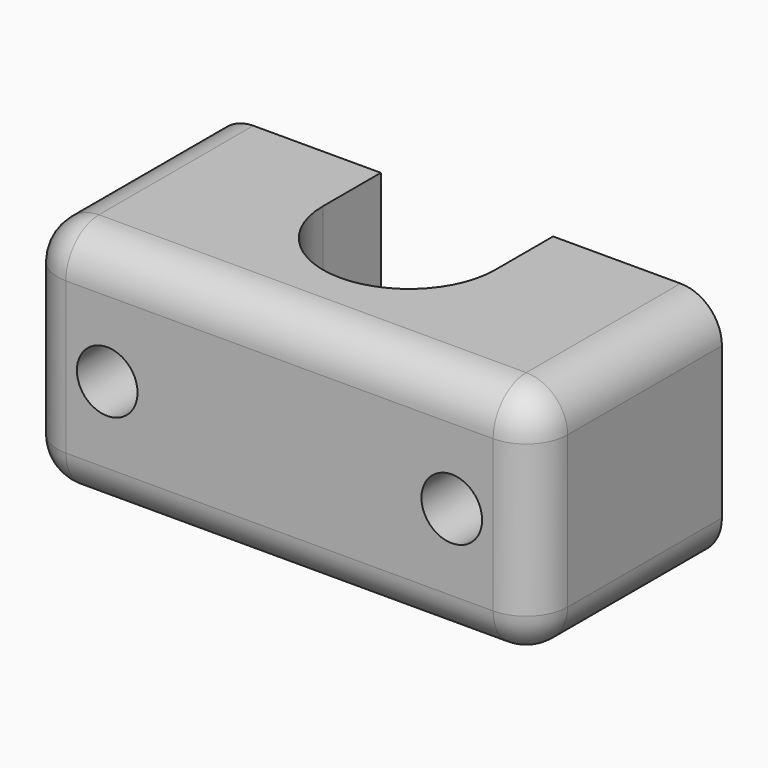
from build123d import *

# Parameters (mm, degrees)
F1_DEPTH = 17
F3_D     = 4.4
F4_R     = 3


with BuildPart() as f1:
    # F0 (on Top) → F1 (new body)
    with BuildSketch(Plane.XY):
        with BuildLine():
            Line((-37, 0), (0, 0))
            Line((0, 0), (0, 17))
            Line((0, 17), (-12.25, 17))
            Line((-12.25, 17), (-12.25, 11.75))
            ThreePointArc((-12.25, 11.75), (-18.5, 5.5), (-24.75, 11.75))
            Line((-24.75, 11.75), (-24.75, 17))
            Line((-24.75, 17), (-37, 17))
            Line((-37, 17), (-37, 0))
        make_face()
    extrude(amount=F1_DEPTH)

    # F3 (through all)
    with Locations(Plane.XZ):
        with Locations((-31, 8.5445777363), (-6, 8.5445777363)):
            Hole(F3_D / 2)

    # F4
    f4_edges = [f1.edges().sort_by_distance(p)[0] for p in [
        (-37, 0, 8.5),
        (0, 0, 8.5),
        (-18.5, 0, 17),
        (-18.5, 0, 0),
        (0, 8.5, 17),
        (0, 8.5, 0),
        (-37, 8.5, 17),
        (-37, 8.5, 0),
    ]]
    fillet(f4_edges, radius=F4_R)


solid = f1.part
